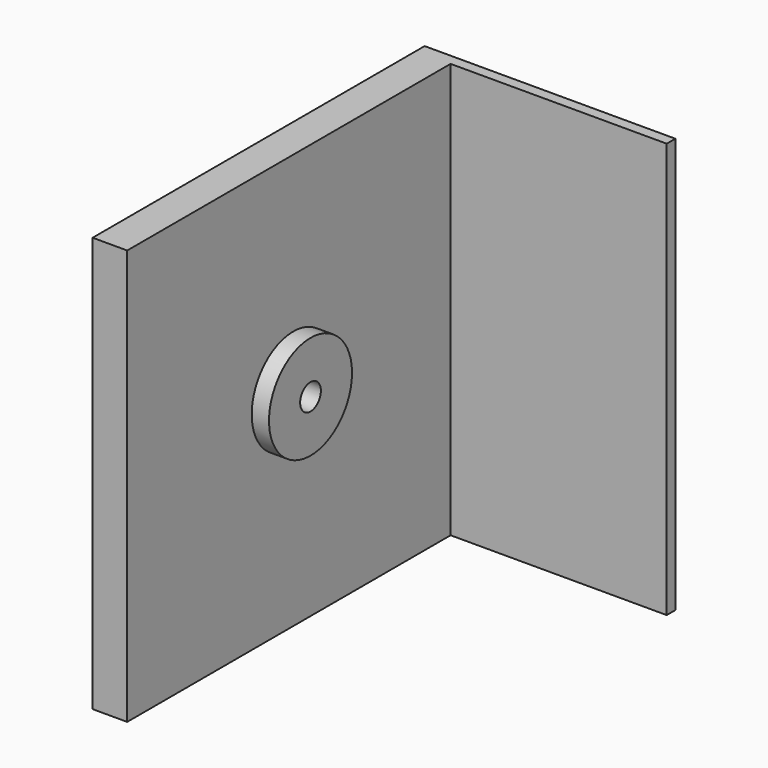
from build123d import *

# Parameters (mm, degrees)
F0_W     = 304.8
F0_H     = 304.8
F1_DEPTH = 25.4
F2_W     = 7.9375
F2_H     = 304.8
F3_DEPTH = 158.75
F4_R     = 38.1
F5_DEPTH = 12.7
F6_R     = 9.525
F7_DEPTH = 12.7


with BuildPart() as f1:
    # F0 (on Right) → F1 (new body)
    with BuildSketch(Plane.YZ):
        Rectangle(F0_W, F0_H)
    extrude(amount=F1_DEPTH)

    # F2 (on face) → F3 (join)
    with BuildSketch(Plane.YZ.offset(25.4)):
        with Locations((148.43125, 0)):
            Rectangle(F2_W, F2_H)
    extrude(amount=F3_DEPTH)

    # F4 (on face) → F5 (join)
    with BuildSketch(Plane.YZ.offset(25.4)):
        Circle(F4_R)
    extrude(amount=F5_DEPTH)

    # F6 (on face) → F7 (cut)
    with BuildSketch(Plane.YZ.offset(25.4)):
        Circle(F6_R)
    extrude(amount=F7_DEPTH, mode=Mode.SUBTRACT)


solid = f1.part
